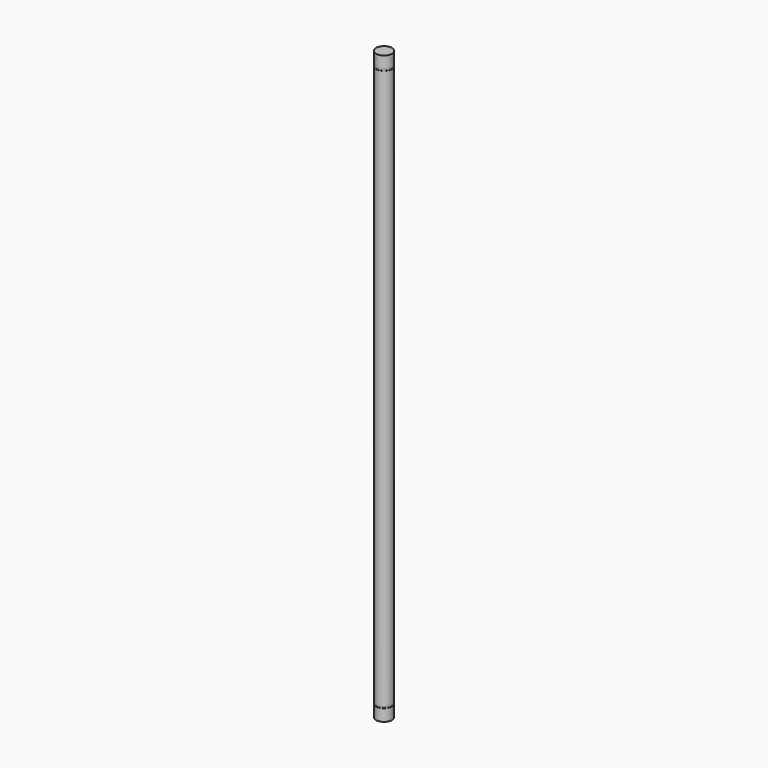
from build123d import *

# Parameters (mm, degrees)
F0_R     = 10
F1_DEPTH = 700
F2_R     = 9.75
F3_DEPTH = 2
F4_R     = 10
F4_R_2   = 9.75
F5_DEPTH = 15
F6_R     = 9.75
F7_DEPTH = 2
F8_R     = 10
F8_R_2   = 9.75
F9_DEPTH = 15


with BuildPart() as f1:
    # F0 (on Top) → F1 (new body)
    with BuildSketch(Plane.XY):
        Circle(F0_R)
    extrude(amount=F1_DEPTH)

    # F2 (on face) → F3 (join)
    with BuildSketch(Plane(origin=(0, 0, 0), x_dir=(1, 0, 0), z_dir=(0, 0, -1))):
        Circle(F2_R)
    extrude(amount=F3_DEPTH)

    # F4 (on face) → F5 (join)
    with BuildSketch(Plane(origin=(0, 0, -2), x_dir=(1, 0, 0), z_dir=(0, 0, -1))):
        Circle(F4_R)
        Circle(F4_R_2, mode=Mode.SUBTRACT)
        Circle(F4_R_2)
    extrude(amount=F5_DEPTH)

    # F6 (on face) → F7 (join)
    with BuildSketch(Plane.XY.offset(700)):
        Circle(F6_R)
    extrude(amount=F7_DEPTH)

    # F8 (on face) → F9 (join)
    with BuildSketch(Plane.XY.offset(702)):
        Circle(F8_R)
        Circle(F8_R_2, mode=Mode.SUBTRACT)
        Circle(F8_R_2)
    extrude(amount=F9_DEPTH)


solid = f1.part
